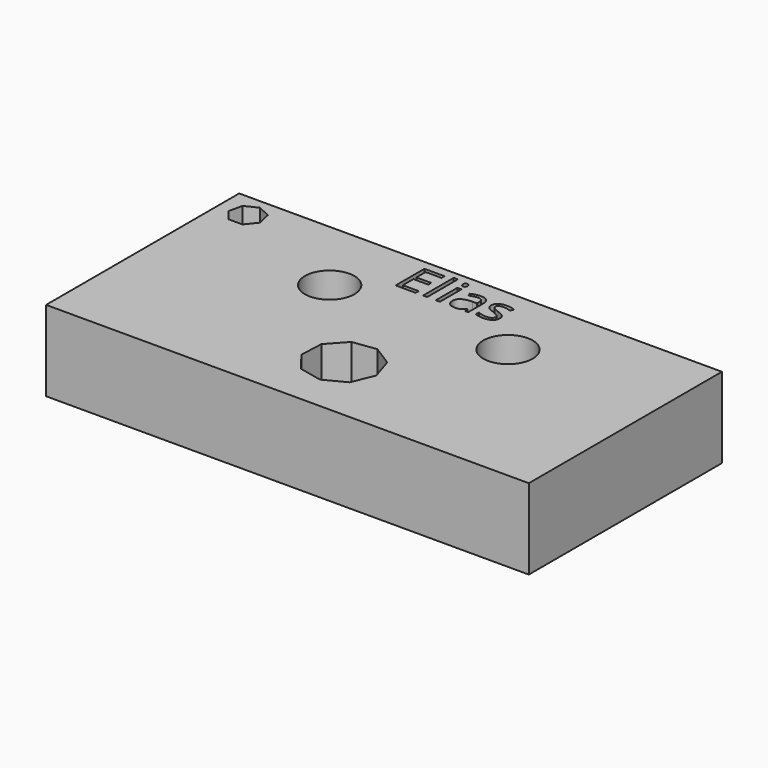
from build123d import *

# Parameters (mm, degrees)
F0_W     = 76.2
F0_H     = 38.1
F0_R     = 3.9040723684
F0_W_2   = 0.6455261652
F0_H_2   = 4.2599751749
F0_H_3   = 6.0485428542
F0_R_2   = 3.8989
F1_DEPTH = 12.7


with BuildPart() as f1:
    # F0 (on Top) → F1 (new body)
    with BuildSketch(Plane.XY):
        Rectangle(F0_W, F0_H)
        Polygon((5.4683112539, -8.3463666961), (4.0425748882, -11.8080461533), (0.725272804, -13.5434007948), (-2.9313924856, -12.7404388974), (-5.2164266525, -9.774875257), (-5.0606368145, -6.0343300593), (-2.5369187683, -3.269045974), (1.1738517643, -2.7729301572), (4.3353640105, -4.7781207134), align=None, mode=Mode.SUBTRACT)
        with Locations((-14.1024813056, 6.9073382765)):
            Circle(F0_R, mode=Mode.SUBTRACT)
        Polygon((-31.2197456793, 14.5646184978), (-32.5964540855, 12.8382807598), (-34.8045229299, 12.8382807598), (-36.1812313362, 14.5646184978), (-35.6898897947, 16.7173264462), (-33.7004885077, 17.6753716126), (-31.7110872208, 16.7173264462), align=None, mode=Mode.SUBTRACT)
        with Locations((-1.035253305, 14.0512490247)):
            Rectangle(F0_W_2, F0_H_2, mode=Mode.SUBTRACT)
        Polygon((-4.533408102, 12.5120609141), (-4.533408102, 11.9212614372), (-7.7013370861, 11.9212614372), (-7.7013370861, 17.60413051), (-4.533408102, 17.60413051), (-4.533408102, 17.0170623983), (-7.0408854604, 17.0170623983), (-7.0408854604, 15.1862059144), (-4.6851502834, 15.1862059144), (-4.6851502834, 14.6028691678), (-7.0408854604, 14.6028691678), (-7.0408854604, 12.5120609141), align=None, mode=Mode.SUBTRACT)
        with Locations((-3.0489466797, 14.9455328644)):
            Rectangle(F0_W_2, F0_H_3, mode=Mode.SUBTRACT)
        with BuildLine():
            add(Edge.make_bspline(
                [(-1.3039115934, 17.0108434565), (-1.412743076, 17.1178092565), (-1.412743076, 17.3354722216)],
                knots=[0, 0, 0, 1, 1, 1], degree=2))
            add(Edge.make_bspline(
                [(-1.412743076, 17.3354722216), (-1.412743076, 17.5568665519), (-1.3039115934, 17.6601009868)],
                knots=[0, 0, 0, 1, 1, 1], degree=2))
            add(Edge.make_bspline(
                [(-1.3039115934, 17.6601009868), (-1.1950801108, 17.7633354217), (-1.0309000457, 17.7633354217)],
                knots=[0, 0, 0, 1, 1, 1], degree=2))
            add(Edge.make_bspline(
                [(-1.0309000457, 17.7633354217), (-0.8754264992, 17.7633354217), (-0.7628636515, 17.6582353042)],
                knots=[0, 0, 0, 1, 1, 1], degree=2))
            add(Edge.make_bspline(
                [(-0.7628636515, 17.6582353042), (-0.6503008038, 17.5531351868), (-0.6503008038, 17.3354722216)],
                knots=[0, 0, 0, 1, 1, 1], degree=2))
            add(Edge.make_bspline(
                [(-0.6503008038, 17.3354722216), (-0.6503008038, 17.1178092565), (-0.7628636515, 17.0108434565)],
                knots=[0, 0, 0, 1, 1, 1], degree=2))
            add(Edge.make_bspline(
                [(-0.7628636515, 17.0108434565), (-0.8754264992, 16.9038776565), (-1.0309000457, 16.9038776565)],
                knots=[0, 0, 0, 1, 1, 1], degree=2))
            add(Edge.make_bspline(
                [(-1.0309000457, 16.9038776565), (-1.1950801108, 16.9038776565), (-1.3039115934, 17.0108434565)],
                knots=[0, 0, 0, 1, 1, 1], degree=2))
        make_face(mode=Mode.SUBTRACT)
        with Locations((13.814676553, 7.1951444261)):
            Circle(F0_R_2, mode=Mode.SUBTRACT)
        with BuildLine():
            Line((3.7539538223, 11.9212614372), (3.275095299, 11.9212614372))
            Line((3.275095299, 11.9212614372), (3.1469850967, 12.5282301629))
            Line((3.1469850967, 12.5282301629), (3.1158903874, 12.5282301629))
            add(Edge.make_bspline(
                [(3.1158903874, 12.5282301629), (2.7974805641, 12.127730307), (2.4809364233, 11.9853165384)],
                knots=[0, 0, 0, 1, 1, 1], degree=2))
            add(Edge.make_bspline(
                [(2.4809364233, 11.9853165384), (2.1643922826, 11.8429027698), (1.6892651244, 11.8429027698)],
                knots=[0, 0, 0, 1, 1, 1], degree=2))
            add(Edge.make_bspline(
                [(1.6892651244, 11.8429027698), (1.0561768429, 11.8429027698), (0.6967220033, 12.1700191117)],
                knots=[0, 0, 0, 1, 1, 1], degree=2))
            add(Edge.make_bspline(
                [(0.6967220033, 12.1700191117), (0.3372671638, 12.4971354536), (0.3372671638, 13.0991290258)],
                knots=[0, 0, 0, 1, 1, 1], degree=2))
            add(Edge.make_bspline(
                [(0.3372671638, 13.0991290258), (0.3372671638, 14.3889375678), (2.4007120733, 14.4511269864)],
                knots=[0, 0, 0, 1, 1, 1], degree=2))
            Line((2.4007120733, 14.4511269864), (3.1233531176, 14.4747589655))
            Line((3.1233531176, 14.4747589655), (3.1233531176, 14.7396858887))
            add(Edge.make_bspline(
                [(3.1233531176, 14.7396858887), (3.1233531176, 15.2409326028), (2.9081777292, 15.4797399702)],
                knots=[0, 0, 0, 1, 1, 1], degree=2))
            add(Edge.make_bspline(
                [(2.9081777292, 15.4797399702), (2.6930023408, 15.7185473377), (2.2178751826, 15.7185473377)],
                knots=[0, 0, 0, 1, 1, 1], degree=2))
            add(Edge.make_bspline(
                [(2.2178751826, 15.7185473377), (1.6855337593, 15.7185473377), (1.0138880383, 15.3926747842)],
                knots=[0, 0, 0, 1, 1, 1], degree=2))
            Line((1.0138880383, 15.3926747842), (0.8148818987, 15.886458768))
            add(Edge.make_bspline(
                [(0.8148818987, 15.886458768), (1.1295603569, 16.056857775), (1.5045625511, 16.153873268)],
                knots=[0, 0, 0, 1, 1, 1], degree=2))
            add(Edge.make_bspline(
                [(1.5045625511, 16.153873268), (1.8795647453, 16.250888761), (2.2576764105, 16.250888761)],
                knots=[0, 0, 0, 1, 1, 1], degree=2))
            add(Edge.make_bspline(
                [(2.2576764105, 16.250888761), (3.0188748943, 16.250888761), (3.3864143583, 15.913200218)],
                knots=[0, 0, 0, 1, 1, 1], degree=2))
            add(Edge.make_bspline(
                [(3.3864143583, 15.913200218), (3.7539538223, 15.5755116749), (3.7539538223, 14.8292386515)],
                knots=[0, 0, 0, 1, 1, 1], degree=2))
            Line((3.7539538223, 14.8292386515), (3.7539538223, 11.9212614372))
        make_face(mode=Mode.SUBTRACT)
        with BuildLine():
            add(Edge.make_bspline(
                [(7.5636776065, 13.7869439956), (7.8298483182, 13.5070916119), (7.8298483182, 13.0829597769)],
                knots=[0, 0, 0, 1, 1, 1], degree=2))
            add(Edge.make_bspline(
                [(7.8298483182, 13.0829597769), (7.8298483182, 12.488428935), (7.3870596577, 12.1656658524)],
                knots=[0, 0, 0, 1, 1, 1], degree=2))
            add(Edge.make_bspline(
                [(7.3870596577, 12.1656658524), (6.9442709971, 11.8429027698), (6.1432712854, 11.8429027698)],
                knots=[0, 0, 0, 1, 1, 1], degree=2))
            add(Edge.make_bspline(
                [(6.1432712854, 11.8429027698), (5.2962514039, 11.8429027698), (4.8223680341, 12.1115610582)],
                knots=[0, 0, 0, 1, 1, 1], degree=2))
            Line((4.8223680341, 12.1115610582), (4.8223680341, 12.7098232652))
            add(Edge.make_bspline(
                [(4.8223680341, 12.7098232652), (5.129583762, 12.5543497187), (5.4809539772, 12.4654188501)],
                knots=[0, 0, 0, 1, 1, 1], degree=2))
            add(Edge.make_bspline(
                [(5.4809539772, 12.4654188501), (5.8323241923, 12.3764879815), (6.1594405342, 12.3764879815)],
                knots=[0, 0, 0, 1, 1, 1], degree=2))
            add(Edge.make_bspline(
                [(6.1594405342, 12.3764879815), (6.6644186134, 12.3764879815), (6.9361863727, 12.5375585757)],
                knots=[0, 0, 0, 1, 1, 1], degree=2))
            add(Edge.make_bspline(
                [(6.9361863727, 12.5375585757), (7.2079541321, 12.6986291699), (7.2079541321, 13.0294768769)],
                knots=[0, 0, 0, 1, 1, 1], degree=2))
            add(Edge.make_bspline(
                [(7.2079541321, 13.0294768769), (7.2079541321, 13.2782345514), (6.9927787437, 13.4548525002)],
                knots=[0, 0, 0, 1, 1, 1], degree=2))
            add(Edge.make_bspline(
                [(6.9927787437, 13.4548525002), (6.7776033553, 13.6314704491), (6.1507340156, 13.8727653933)],
                knots=[0, 0, 0, 1, 1, 1], degree=2))
            add(Edge.make_bspline(
                [(6.1507340156, 13.8727653933), (5.5562031737, 14.0941597236), (5.3055798167, 14.2595835771)],
                knots=[0, 0, 0, 1, 1, 1], degree=2))
            add(Edge.make_bspline(
                [(5.3055798167, 14.2595835771), (5.0549564597, 14.4250074306), (4.932443305, 14.6345857713)],
                knots=[0, 0, 0, 1, 1, 1], degree=2))
            add(Edge.make_bspline(
                [(4.932443305, 14.6345857713), (4.8099301504, 14.844164112), (4.8099301504, 15.1352105911)],
                knots=[0, 0, 0, 1, 1, 1], degree=2))
            add(Edge.make_bspline(
                [(4.8099301504, 15.1352105911), (4.8099301504, 15.6563579191), (5.2340619853, 15.9579765994)],
                knots=[0, 0, 0, 1, 1, 1], degree=2))
            add(Edge.make_bspline(
                [(5.2340619853, 15.9579765994), (5.6581938202, 16.2595952796), (6.395760325, 16.2595952796)],
                knots=[0, 0, 0, 1, 1, 1], degree=2))
            add(Edge.make_bspline(
                [(6.395760325, 16.2595952796), (7.0835752948, 16.2595952796), (7.7415393437, 15.9797428959)],
                knots=[0, 0, 0, 1, 1, 1], degree=2))
            Line((7.7415393437, 15.9797428959), (7.5114384949, 15.4548642028))
            add(Edge.make_bspline(
                [(7.5114384949, 15.4548642028), (6.8708874832, 15.7185473377), (6.3497401552, 15.7185473377)],
                knots=[0, 0, 0, 1, 1, 1], degree=2))
            add(Edge.make_bspline(
                [(6.3497401552, 15.7185473377), (5.8907822458, 15.7185473377), (5.657571926, 15.5748897807)],
                knots=[0, 0, 0, 1, 1, 1], degree=2))
            add(Edge.make_bspline(
                [(5.657571926, 15.5748897807), (5.4243616062, 15.4312322237), (5.4243616062, 15.1787431842)],
                knots=[0, 0, 0, 1, 1, 1], degree=2))
            add(Edge.make_bspline(
                [(5.4243616062, 15.1787431842), (5.4243616062, 15.0071003888), (5.5120486865, 14.8870748109)],
                knots=[0, 0, 0, 1, 1, 1], degree=2))
            add(Edge.make_bspline(
                [(5.5120486865, 14.8870748109), (5.5997357667, 14.7670492329), (5.7937667528, 14.6582177504)],
                knots=[0, 0, 0, 1, 1, 1], degree=2))
            add(Edge.make_bspline(
                [(5.7937667528, 14.6582177504), (5.9877977389, 14.5493862678), (6.5400397762, 14.342917398)],
                knots=[0, 0, 0, 1, 1, 1], degree=2))
            add(Edge.make_bspline(
                [(6.5400397762, 14.342917398), (7.2975068949, 14.0667963794), (7.5636776065, 13.7869439956)],
                knots=[0, 0, 0, 1, 1, 1], degree=2))
        make_face(mode=Mode.SUBTRACT)
    extrude(amount=F1_DEPTH)


solid = f1.part
